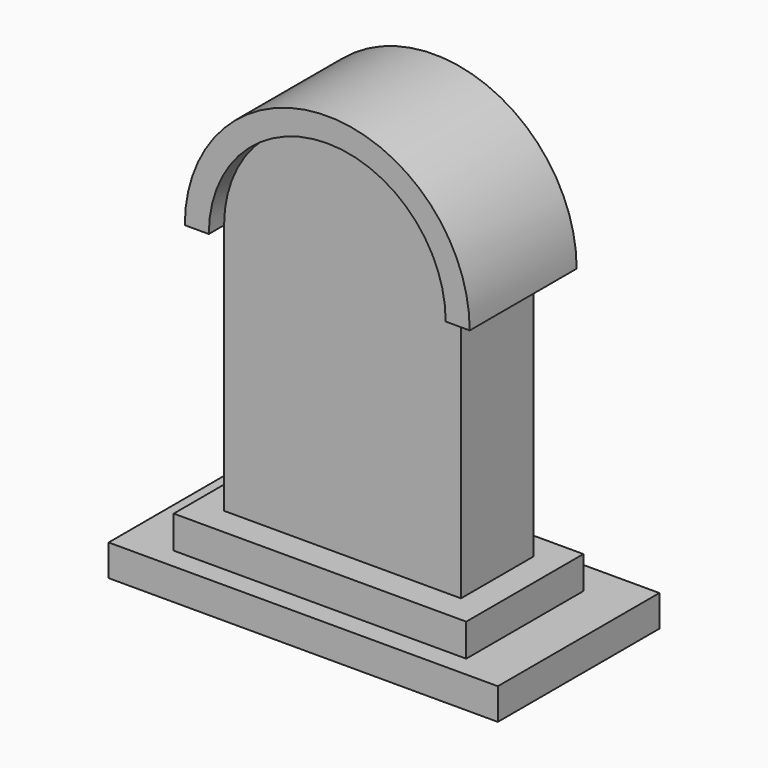
from build123d import *

# Parameters (mm, degrees)
F0_W          = 66.1686062813
F0_H          = 70.2235847712
F1_DEPTH      = 25.4
F2_DEPTH      = 30.734
F2_DEPTH_BACK = 6.604
F0_W_2        = 7.764685899
F0_H_2        = 9.111225605
F3_DEPTH      = 33.274
F3_DEPTH_BACK = 7.62
F0_W_3        = 13.5037973523
F0_H_3        = 8.7774693966
F4_DEPTH      = 39.116
F4_DEPTH_BACK = 17.272


with BuildPart() as f1:
    # F0 (on Front) → F1 (new body)
    with BuildSketch(Plane.XZ):
        with BuildLine():
            ThreePointArc((33.0843031406, 44.2230179906), (0, 77.3073211312), (-33.0843031406, 44.2230179906))
            Line((-33.0843031406, 44.2230179906), (33.0843031406, 44.2230179906))
        make_face()
        with Locations((0, 9.111225605)):
            Rectangle(F0_W, F0_H)
    extrude(amount=F1_DEPTH)

    # F0 (on Front) → F2 (join, two sides)
    with BuildSketch(Plane.XZ) as f2_sk:
        with BuildLine():
            Line((-39.7869050503, 44.2230179906), (-33.0843031406, 44.2230179906))
            ThreePointArc((-33.0843031406, 44.2230179906), (0, 77.3073211312), (33.0843031406, 44.2230179906))
            Line((33.0843031406, 44.2230179906), (39.7869050503, 44.2230179906))
            ThreePointArc((39.7869050503, 44.2230179906), (0, 84.0099230409), (-39.7869050503, 44.2230179906))
        make_face()
    extrude(amount=F2_DEPTH)
    extrude(f2_sk.sketch, amount=-F2_DEPTH_BACK)

    # F0 (on Front) → F3 (join, two sides)
    with BuildSketch(Plane.XZ) as f3_sk:
        with Locations((36.9666460901, -30.5561795831)):
            Rectangle(F0_W_2, F0_H_2)
        with Locations((0, -30.5561795831)):
            Rectangle(F0_W, F0_H_2)
        with Locations((-36.9666460901, -30.5561795831)):
            Rectangle(F0_W_2, F0_H_2)
    extrude(amount=F3_DEPTH)
    extrude(f3_sk.sketch, amount=-F3_DEPTH_BACK)

    # F0 (on Front) → F4 (join, two sides)
    with BuildSketch(Plane.XZ) as f4_sk:
        with Locations((47.6008877158, -39.5005270839)):
            Rectangle(F0_W_3, F0_H_3)
        with Locations((36.9666460901, -39.5005270839)):
            Rectangle(F0_W_2, F0_H_3)
        with Locations((0, -39.5005270839)):
            Rectangle(F0_W, F0_H_3)
        with Locations((-36.9666460901, -39.5005270839)):
            Rectangle(F0_W_2, F0_H_3)
        with Locations((-47.6008877158, -39.5005270839)):
            Rectangle(F0_W_3, F0_H_3)
    extrude(amount=F4_DEPTH)
    extrude(f4_sk.sketch, amount=-F4_DEPTH_BACK)


solid = f1.part
